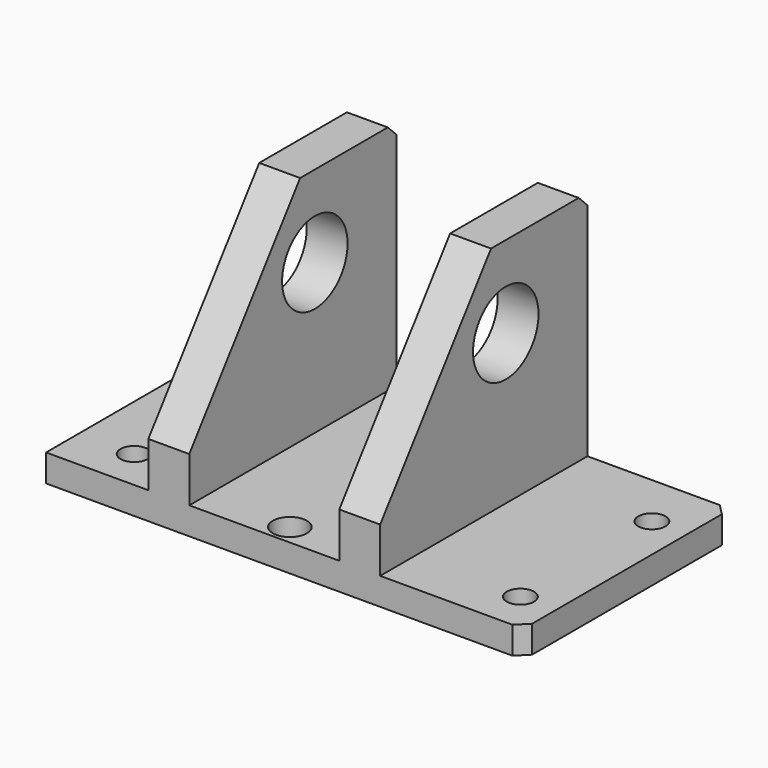
from build123d import *

# Parameters (mm, degrees)
F0_W      = 222.25
F0_H      = 120.65
F1_DEPTH  = 12.7
F3_DEPTH  = 107.95
F5_DEPTH  = 107.95
F6_SIZE2  = 5.08
F6_SIZE   = 5.08
F7_R      = 19.05
F8_DEPTH  = 192.278
F9_SIZE   = 5.08
F10_SIZE  = 5.08
F11_SIZE  = 5.08
F12_R     = 6.35
F12_R_2   = 7.9375
F13_DEPTH = 25.4
F15_DEPTH = 216.154


with BuildPart() as f1:
    # F0 (on Top) → F1 (new body)
    with BuildSketch(Plane.XY):
        with Locations((5.2343402058, -36.9766564707)):
            Rectangle(F0_W, F0_H)
    extrude(amount=F1_DEPTH)

    # F2 (on face) → F3 (join)
    with BuildSketch(Plane.XY.offset(12.7)):
        Polygon((-58.2656597942, 23.3483435293), (-58.2656597942, -85.1823836565), (-58.2656597942, -97.3016564707), (-39.2156597942, -97.3016564707), (-39.2156597942, 23.3483435293), align=None)
    extrude(amount=F3_DEPTH)

    # F4 (on face) → F5 (join)
    with BuildSketch(Plane.XY.offset(12.7)):
        Polygon((30.6343402058, 23.3483435293), (30.6343402058, -84.2409580946), (30.6343402058, -97.3016564707), (49.6843402058, -97.3016564707), (49.6843402058, 23.3483435293), align=None)
    extrude(amount=F5_DEPTH)

    # F6
    f6_edges = [f1.edges().sort_by_distance(p)[0] for p in [
        (40.15934, 23.348344, 120.65),
    ]]
    chamfer(f6_edges, length=F6_SIZE, length2=F6_SIZE2)

    # F7 (on face) → F8 (cut)
    with BuildSketch(Plane.YZ.offset(49.6843402058)):
        with Locations((-24.1999551654, 82.55)):
            Circle(F7_R)
    extrude(amount=-F8_DEPTH, mode=Mode.SUBTRACT)

    # F9
    f9_edges = [f1.edges().sort_by_distance(p)[0] for p in [
        (-48.74066, 23.348344, 120.65),
    ]]
    chamfer(f9_edges, length=F9_SIZE)

    # F10
    f10_edges = [f1.edges().sort_by_distance(p)[0] for p in [
        (116.35934, -97.301656, 6.35),
    ]]
    chamfer(f10_edges, length=F10_SIZE)

    # F11
    f11_edges = [f1.edges().sort_by_distance(p)[0] for p in [
        (116.35934, 23.348344, 6.35),
    ]]
    chamfer(f11_edges, length=F11_SIZE)

    # F12 (on face) → F13 (cut)
    with BuildSketch(Plane.XY.offset(12.7)):
        with Locations((99.7244338119, -78.2516564707)):
            Circle(F12_R)
        with Locations((99.9952717069, -2.0516564707)):
            Circle(F12_R)
        with Locations((-80.1142602397, -78.2516564707)):
            Circle(F12_R)
        with Locations((0, -87.7766564707)):
            Circle(F12_R_2)
    extrude(amount=-F13_DEPTH, mode=Mode.SUBTRACT)

    # F14 (on face) → F15 (cut)
    with BuildSketch(Plane.YZ.offset(49.6843402058)):
        Polygon((-97.3016564707, 120.65), (-97.3016564707, 33.7335392833), (-32.7723734081, 120.65), align=None)
    extrude(amount=-F15_DEPTH, mode=Mode.SUBTRACT)


solid = f1.part
